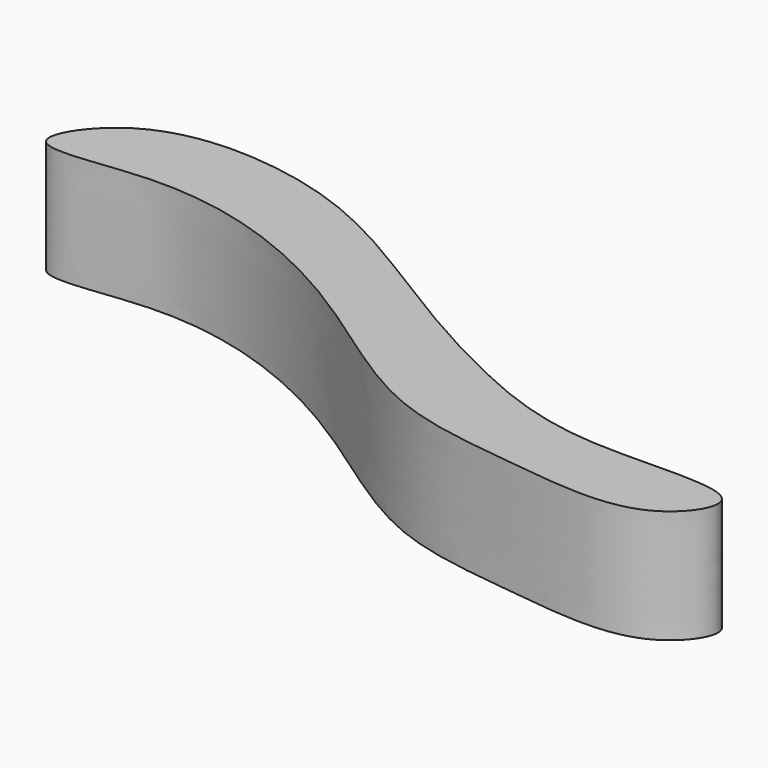
from build123d import *

# Parameters (mm, degrees)
F1_DEPTH = 10
F2_R     = 2.5
F3_DEPTH = 5


with BuildPart() as f1:
    # F0 (on Top) → F1 (new body)
    with BuildSketch(Plane.XY):
        with BuildLine():
            add(Edge.make_bspline(
                [(-78.2472194041, 5.209332332), (-74.7808291996, 7.3846725727), (-65.2731373761, 7.2648824506), (-55.4489107601, 3.1360594696), (-45.977889366, -3.1178081228), (-35.6592598633, -8.7813179091), (-25.1136788971, -12.6719874753), (-9.1894913322, -10.5368988865), (-14.7636505673, -19.073410214), (-26.8182003262, -17.3537669534), (-38.4918575286, -16.2270951527), (-49.1658932491, -7.9973039669), (-59.3448526203, -2.0018931438), (-71.4200963358, 1.1409288325), (-84.4610522393, -2.1450423024), (-80.6881151149, 3.6775432518), (-78.2472194041, 5.209332332)],
                knots=[0, 0, 0, 0, 0.0774241635, 0.1490907373, 0.2220831507, 0.2960203961, 0.372875129, 0.4477309657, 0.4966489155, 0.5713894416, 0.6468608065, 0.7253369929, 0.8002514388, 0.879814244, 0.9454809478, 1, 1, 1, 1], degree=3))
        make_face()
    extrude(amount=F1_DEPTH)

    # F2 (on Top) → F3 (cut)
    with BuildSketch(Plane.XY):
        with Locations((-40.6239591539, -10.1231224835)):
            Circle(F2_R)
    extrude(amount=F3_DEPTH, mode=Mode.SUBTRACT)


solid = f1.part
